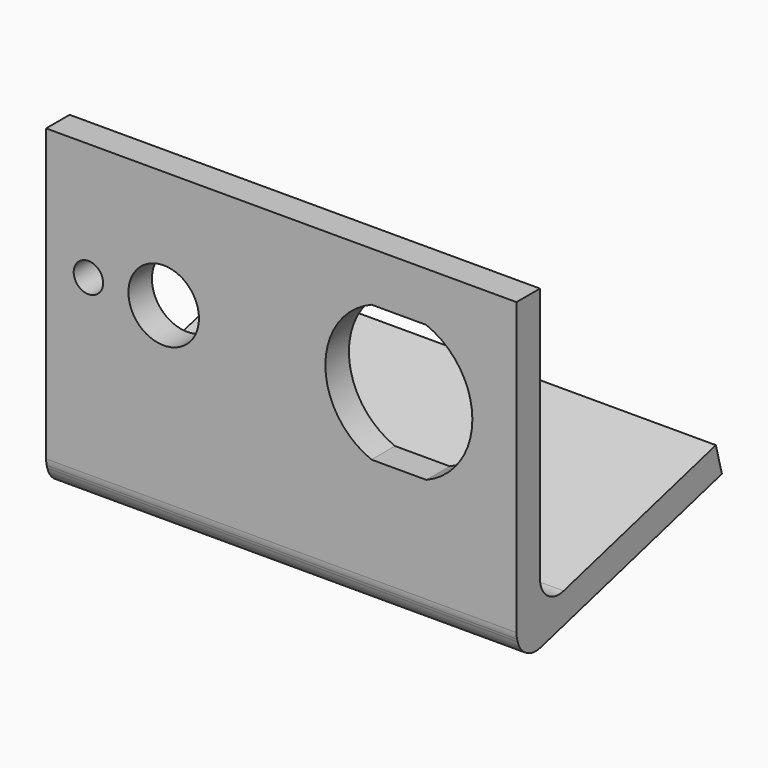
from build123d import *

# Parameters (mm, degrees)
F0_W     = 50.8
F0_H     = 31.75
F0_R     = 1.5875
F0_R_2   = 3.81
F1_DEPTH = 3.175
F3_DEPTH = 50.8
F4_R     = 2.54
F5_R     = 2.54


with BuildPart() as f1:
    # F0 (on Front) → F1 (new body)
    with BuildSketch(Plane.XZ):
        with Locations((0, -3.175)):
            Rectangle(F0_W, F0_H)
        with Locations((-20.828, 0)):
            Circle(F0_R, mode=Mode.SUBTRACT)
        with Locations((-12.7, 0)):
            Circle(F0_R_2, mode=Mode.SUBTRACT)
        with BuildLine():
            ThreePointArc((9.7426447204, -7.366), (4.7625, 0), (9.7426447204, 7.366))
            Line((9.7426447204, 7.366), (15.6573552796, 7.366))
            ThreePointArc((15.6573552796, 7.366), (20.6375, 0), (15.6573552796, -7.366))
            Line((15.6573552796, -7.366), (9.7426447204, -7.366))
        make_face(mode=Mode.SUBTRACT)
    extrude(amount=F1_DEPTH)

    # F2 (on face) → F3 (join, through all)
    with BuildSketch(Plane(origin=(-25.4, 0, 0), x_dir=(0, -1, 0), z_dir=(-1, 0, 0))):
        Polygon((2.3532495318, -22.1168144985), (3.175, -19.05), (-23.7399423715, -11.8381629272), (-24.5616928397, -14.9049774257), align=None)
    extrude(amount=-F3_DEPTH)

    # F4
    f4_edges = [f1.edges().sort_by_distance(p)[0] for p in [
        (0, 0, -18.199261),
    ]]
    fillet(f4_edges, radius=F4_R)

    # F5
    f5_edges = [f1.edges().sort_by_distance(p)[0] for p in [
        (0, -2.35325, -22.116814),
        (0, -3.175, -19.05),
    ]]
    fillet(f5_edges, radius=F5_R)


solid = f1.part
